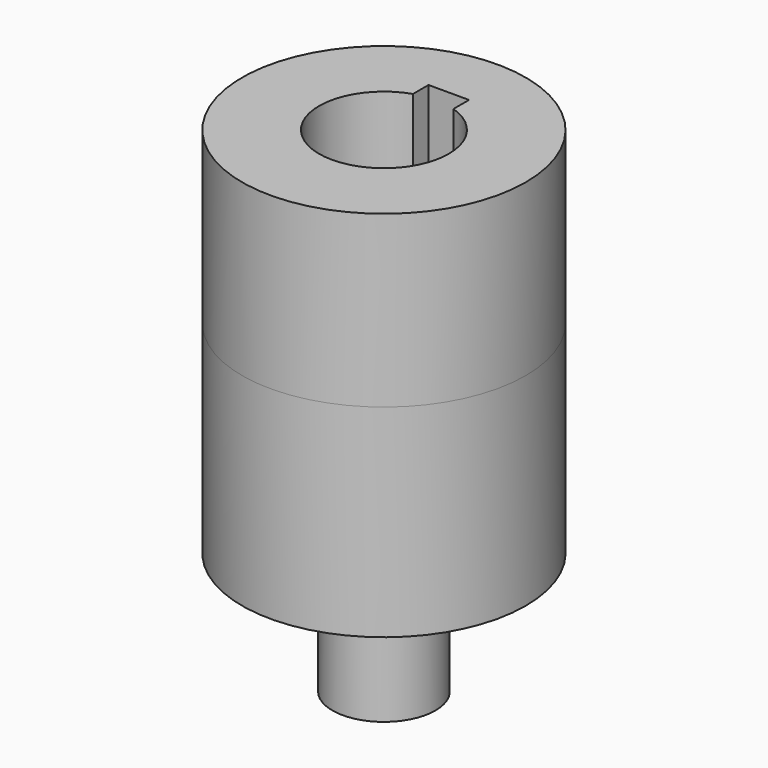
from build123d import *

# Parameters (mm, degrees)
F0_R     = 17.5
F1_DEPTH = 10.5
F2_R     = 17.5
F2_R_2   = 2.75
F3_DEPTH = 25
F4_R     = 6.35
F4_R_2   = 2.75
F5_DEPTH = 15


with BuildPart() as f1:
    # F0 (on Top) → F1 (new body, symmetric)
    with BuildSketch(Plane.XY):
        Circle(F0_R)
        with BuildLine():
            ThreePointArc((2.5, 7.5993420768), (0, -8), (-2.5, 7.5993420768))
            Line((-2.5, 7.5993420768), (-2.5, 10))
            Line((-2.5, 10), (2.5, 10))
            Line((2.5, 10), (2.5, 7.5993420768))
        make_face(mode=Mode.SUBTRACT)
    extrude(amount=F1_DEPTH, both=True)

    # F2 (on face) → F3 (join)
    with BuildSketch(Plane(origin=(0, 0, -10.5), x_dir=(1, 0, 0), z_dir=(0, 0, -1))):
        Circle(F2_R)
        with BuildLine():
            Line((-2.5, -10), (-2.5, -7.5993420768))
            ThreePointArc((-2.5, -7.5993420768), (0, 8), (2.5, -7.5993420768))
            Line((2.5, -7.5993420768), (2.5, -10))
            Line((2.5, -10), (-2.5, -10))
        make_face(mode=Mode.SUBTRACT)
        with BuildLine():
            ThreePointArc((2.5, -7.5993420768), (0, 8), (-2.5, -7.5993420768))
            Line((-2.5, -7.5993420768), (-2.5, -10))
            Line((-2.5, -10), (2.5, -10))
            Line((2.5, -10), (2.5, -7.5993420768))
        make_face()
        Circle(F2_R_2, mode=Mode.SUBTRACT)
    extrude(amount=F3_DEPTH)

    # F4 (on face) → F5 (join)
    with BuildSketch(Plane(origin=(0, 0, -35.5), x_dir=(1, 0, 0), z_dir=(0, 0, -1))):
        Circle(F4_R)
        Circle(F4_R_2, mode=Mode.SUBTRACT)
    extrude(amount=F5_DEPTH)


solid = f1.part
